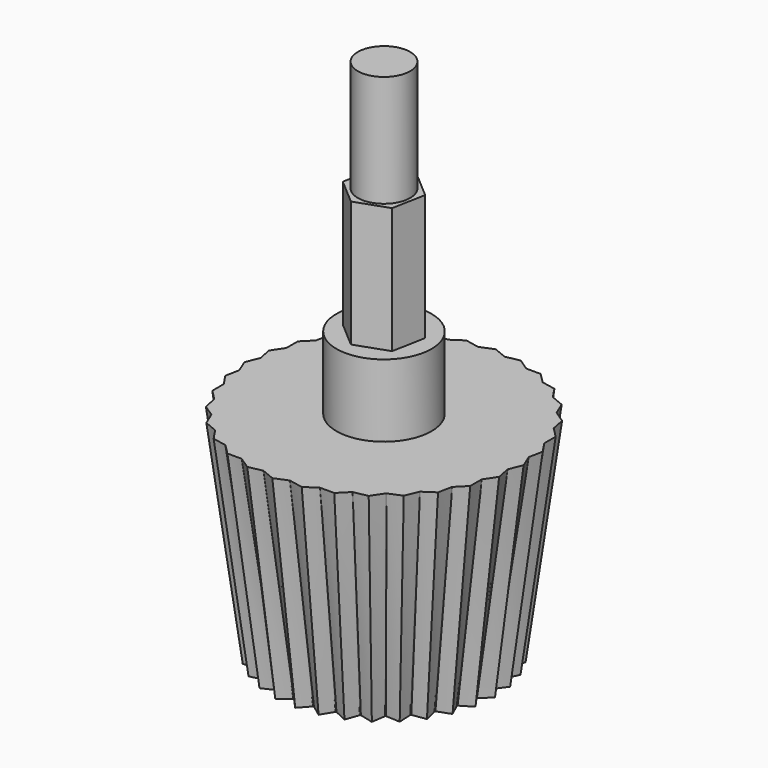
from build123d import *

# Parameters (mm, degrees)
F0_R      = 8.5
F1_DEPTH  = 18
F1_TAPER  = -9
F5_COUNT  = 32
F6_R      = 4
F7_DEPTH  = 6.1
F9_DEPTH  = 10.6
F10_R     = 2.2
F11_DEPTH = 9.4


with BuildPart() as f1:
    # F0 (on Top) → F1 (new body)
    with BuildSketch(Plane.XY):
        Circle(F0_R)
    extrude(amount=F1_DEPTH, taper=F1_TAPER)

    # F2 (on face) → F4 section 0
    with BuildSketch(Plane.XY.offset(18)):
        Polygon((0, 11.751476931), (-1.1, 11.2974945525), (1.1, 11.2974945525), align=None)
    # F3 (on face) → F4 section 1
    with BuildSketch(Plane(origin=(0, 0, 0), x_dir=(1, 0, 0), z_dir=(0, 0, -1))):
        Polygon((0, -9.3432345788), (0.8, -8.4622691992), (-0.8, -8.4622691992), align=None)
    loft()

    # F5: F1 ×32 about axis
    f5_axis = Axis((0, 0, 0), (0, 0, 1))


with BuildPart() as f1_1:
    add(f1.part)
    for i in range(1, F5_COUNT):
        add(f1.part.rotate(f5_axis, i * 360 / F5_COUNT))

    # F6 (on face) → F7 (join)
    with BuildSketch(Plane.XY.offset(18)):
        Circle(F6_R)
    extrude(amount=F7_DEPTH)

    # F8 (on face) → F9 (join)
    with BuildSketch(Plane.XY.offset(24.1)):
        Polygon((-0.5307975379, -2.820488251), (2.1772157075, -1.8699282775), (2.7080132453, 0.9505599734), (0.5307975379, 2.820488251), (-2.1772157075, 1.8699282775), (-2.7080132453, -0.9505599734), align=None)
    extrude(amount=F9_DEPTH)

    # F10 (on face) → F11 (join)
    with BuildSketch(Plane.XY.offset(34.7)):
        Circle(F10_R)
    extrude(amount=F11_DEPTH)


solid = f1_1.part
